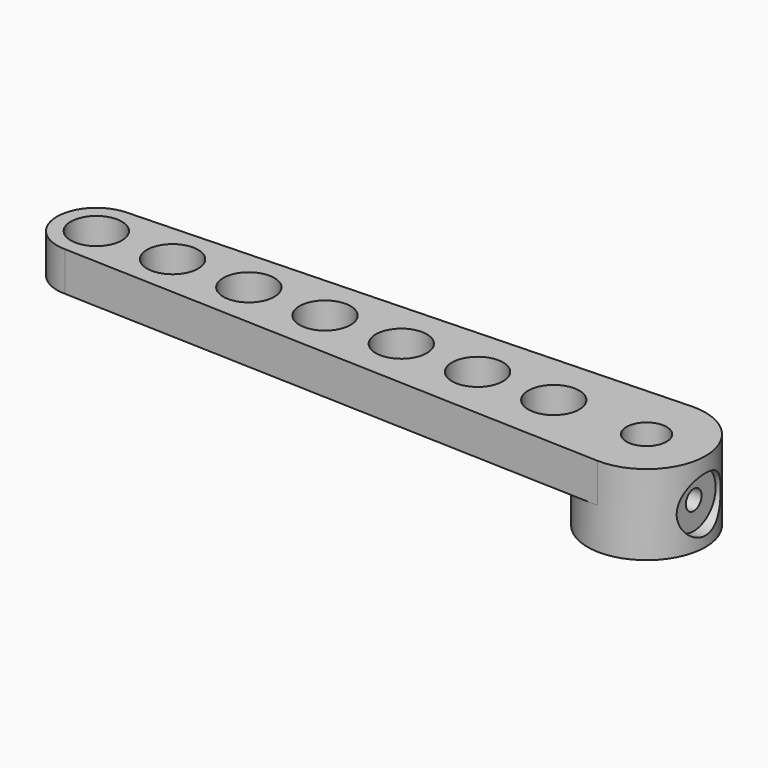
from build123d import *

# Parameters (mm, degrees)
F0_R     = 9.525
F0_R_2   = 3.2385
F1_DEPTH = 12.954
F2_R     = 4.1275
F3_DEPTH = 6.35
F5_R     = 1.5875
F6_DEPTH = 31.75
F7_DEPTH = 25.4
F5_R_2   = 4.445
F8_DEPTH = 17.78


with BuildPart() as f1:
    # F0 (on Top) → F1 (new body)
    with BuildSketch(Plane.XY):
        Circle(F0_R)
        Circle(F0_R_2, mode=Mode.SUBTRACT)
    extrude(amount=F1_DEPTH)

    # F2 (on face) → F3 (join)
    with BuildSketch(Plane.XY.offset(12.954)):
        with BuildLine():
            ThreePointArc((-0.3406139649, -9.5189078747), (6.6136705763, -6.8545595415), (9.525, 0))
            ThreePointArc((9.525, 0), (6.6137479521, 6.8544848841), (-0.3403990606, 9.5189155622))
            ThreePointArc((-0.3403990606, 9.5189155622), (-9.5249999994, 0.0001075209), (-0.3406139649, -9.5189078747))
        make_face()
        with BuildLine():
            ThreePointArc((-0.3406139649, -9.5189078747), (-9.5249999994, 0.0001075209), (-0.3403990606, 9.5189155622))
            Line((-0.3403990606, 9.5189155622), (-88.965388203, 6.3496633283))
            ThreePointArc((-88.965388203, 6.3496633283), (-84.4330499829, 4.5131870717), (-82.55, 0))
            ThreePointArc((-82.55, 0), (-84.4098719395, -4.4901280605), (-88.9, -6.35))
            Line((-88.9, -6.35), (-0.3406139649, -9.5189078747))
        make_face()
        with Locations((-76.581, 0)):
            Circle(F2_R, mode=Mode.SUBTRACT)
        with Locations((-64.262, 0)):
            Circle(F2_R, mode=Mode.SUBTRACT)
        with Locations((-51.943, 0)):
            Circle(F2_R, mode=Mode.SUBTRACT)
        with Locations((-39.624, 0)):
            Circle(F2_R, mode=Mode.SUBTRACT)
        with Locations((-27.305, 0)):
            Circle(F2_R, mode=Mode.SUBTRACT)
        with Locations((-14.986, 0)):
            Circle(F2_R, mode=Mode.SUBTRACT)
        with BuildLine():
            ThreePointArc((-82.55, 0), (-84.4330499829, 4.5131870717), (-88.965388203, 6.3496633283))
            ThreePointArc((-88.965388203, 6.3496633283), (-95.2499158315, -0.0326945349), (-88.9, -6.35))
            ThreePointArc((-88.9, -6.35), (-84.4098719395, -4.4901280605), (-82.55, 0))
        make_face()
        with Locations((-88.9, 0)):
            Circle(F2_R, mode=Mode.SUBTRACT)
    extrude(amount=-F3_DEPTH)

    # F5 (on offset) → F6 (cut)
    with BuildSketch(Plane.YZ.offset(25.4)):
        with Locations((0, 6.096)):
            Circle(F5_R)
    extrude(amount=-F6_DEPTH, mode=Mode.SUBTRACT)

    # F0 (on Top) → F7 (cut)
    with BuildSketch(Plane.XY):
        Circle(F0_R_2)
    extrude(amount=F7_DEPTH, mode=Mode.SUBTRACT)

    # F5 (on offset) → F8 (cut)
    with BuildSketch(Plane.YZ.offset(25.4)):
        with Locations((0, 6.096)):
            Circle(F5_R_2)
        with Locations((0, 6.096)):
            Circle(F5_R, mode=Mode.SUBTRACT)
    extrude(amount=-F8_DEPTH, mode=Mode.SUBTRACT)


solid = f1.part
